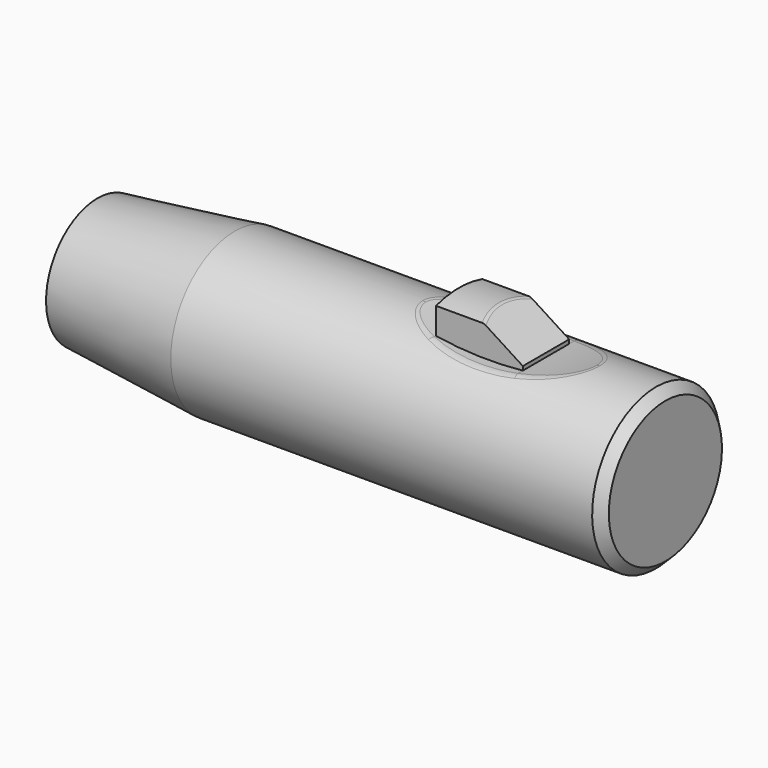
from build123d import *

# Parameters (mm, degrees)
F4_DEPTH = 12.5
F5_R     = 1
F6_DEPTH = 2.5
F7_SIZE  = 0.8
F8_R     = 9.2444577991
F8_R_2   = 8.9
F9_DEPTH = 17.801
F10_R    = 0.5


with BuildPart() as f2:
    # F1 (on Front) → F2 (revolve)
    with BuildSketch(Plane.XZ):
        Polygon((33.6140350877, 6.9), (21.7719298246, 5.55), (21.7719298246, 4.05), (31.7719298246, 4.05), (31.7719298246, 0), (70.7719298246, 0), (70.7719298246, 6.9), align=None)
    revolve(axis=Axis((6, 0, 0), (1, 0, 0)))

    # F3 (on Front) → F4 (cut, symmetric)
    with BuildSketch(Plane.XZ):
        with BuildLine():
            Line((52.9719298246, 6.9), (52.9719298246, 6.2559245818))
            ThreePointArc((52.9719298246, 6.2559245818), (56.7154053617, 5.909998764), (60.4719298246, 6.0576393039))
            Line((60.4719298246, 6.0576393039), (60.4719298246, 6.4))
            Line((60.4719298246, 6.4), (59.6919298246, 6.9))
            Line((59.6919298246, 6.9), (52.9719298246, 6.9))
        make_face()
        with BuildLine():
            Line((60.4719298246, 6.4), (60.4719298246, 6.0576393039))
            ThreePointArc((60.4719298246, 6.0576393039), (62.7387972888, 6.3887114723), (64.9719298246, 6.9))
            Line((64.9719298246, 6.9), (59.6919298246, 6.9))
            Line((59.6919298246, 6.9), (60.4719298246, 6.4))
        make_face()
        with BuildLine():
            ThreePointArc((49.9719298246, 6.9), (51.4632936826, 6.5377365269), (52.9719298246, 6.2559245818))
            Line((52.9719298246, 6.2559245818), (52.9719298246, 6.9))
            Line((52.9719298246, 6.9), (49.9719298246, 6.9))
        make_face()
    extrude(amount=F4_DEPTH, both=True, mode=Mode.SUBTRACT)

    # F5
    f5_edges = [f2.edges().sort_by_distance(p)[0] for p in [
        (57.47193, -3.577709, 5.9),
        (57.47193, 3.577709, 5.9),
    ]]
    fillet(f5_edges, radius=F5_R)

    # F3 (on Front) → F6 (join, symmetric)
    with BuildSketch(Plane.XZ):
        Polygon((52.9719298246, 8.9), (52.9719298246, 6.9), (59.6919298246, 6.9), (56.5719298246, 8.9), align=None)
        with BuildLine():
            Line((52.9719298246, 6.9), (52.9719298246, 6.2559245818))
            ThreePointArc((52.9719298246, 6.2559245818), (56.7154053617, 5.909998764), (60.4719298246, 6.0576393039))
            Line((60.4719298246, 6.0576393039), (60.4719298246, 6.4))
            Line((60.4719298246, 6.4), (59.6919298246, 6.9))
            Line((59.6919298246, 6.9), (52.9719298246, 6.9))
        make_face()
        with BuildLine():
            Line((52.9719298246, 6.2559245818), (52.9719298246, 4.9))
            Line((52.9719298246, 4.9), (60.4719298246, 4.9))
            Line((60.4719298246, 4.9), (60.4719298246, 6.0576393039))
            ThreePointArc((60.4719298246, 6.0576393039), (56.7154053617, 5.909998764), (52.9719298246, 6.2559245818))
        make_face()
    extrude(amount=F6_DEPTH, both=True)

    # F7
    f7_edges = [f2.edges().sort_by_distance(p)[0] for p in [
        (70.77193, 0, -6.9),
    ]]
    chamfer(f7_edges, length=F7_SIZE)

    # F8 (on face) → F9 (cut, through all)
    with BuildSketch(Plane(origin=(52.9719298246, 0, 0), x_dir=(0, -1, 0), z_dir=(-1, 0, 0))):
        Circle(F8_R)
        Circle(F8_R_2, mode=Mode.SUBTRACT)
    extrude(amount=-F9_DEPTH, mode=Mode.SUBTRACT)

    # F10
    f10_edges = [f2.edges().sort_by_distance(p)[0] for p in [
        (56.718854, -1.291345, 8.805818),
        (56.718854, 1.291345, 8.805818),
    ]]
    fillet(f10_edges, radius=F10_R)


solid = f2.part
